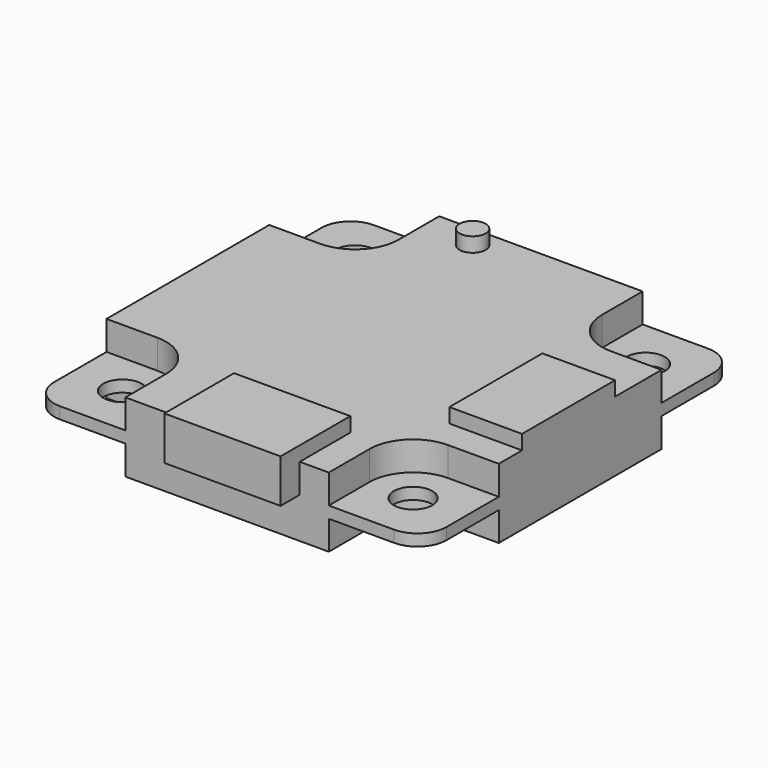
from build123d import *

# Parameters (mm, degrees)
F0_W          = 27
F0_H          = 27
F1_DEPTH      = 0.8
F2_D          = 2.65
F3_R          = 2
F4_W          = 5
F4_H          = 8
F4_W_2        = 8
F4_H_2        = 6
F4_R          = 0.9
F5_DEPTH      = 3
F7_DEPTH      = 2.8
F7_DEPTH_BACK = 2


with BuildPart() as f1:
    # F0 (on Top) → F1 (new body)
    with BuildSketch(Plane.XY):
        Rectangle(F0_W, F0_H)
    extrude(amount=F1_DEPTH)

    # F2 (through all)
    with Locations(Plane(origin=(0, 0, 0), x_dir=(1, 0, 0), z_dir=(0, 0, -1))):
        with Locations((-10, 10), (-10, -10), (10, 10), (10, -10)):
            Hole(F2_D / 2)

    # F3
    f3_edges = [f1.edges().sort_by_distance(p)[0] for p in [
        (-13.5, -13.5, 0.4),
        (-13.5, 13.5, 0.4),
        (13.5, -13.5, 0.4),
        (13.5, 13.5, 0.4),
    ]]
    fillet(f3_edges, radius=F3_R)

    # F4 (on face) → F5 (join)
    with BuildSketch(Plane.XY.offset(0.8)):
        with Locations((11, -1)):
            Rectangle(F4_W, F4_H)
        with Locations((1, -12.15)):
            Rectangle(F4_W_2, F4_H_2)
        with Locations((-3.5, 12)):
            Circle(F4_R)
    extrude(amount=F5_DEPTH)

    # F6 (on Top) → F7 (join, two sides)
    with BuildSketch(Plane.XY) as f7_sk:
        with BuildLine():
            Line((7, 10), (7, 13.5))
            Line((7, 13.5), (-7, 13.5))
            Line((-7, 13.5), (-7, 10))
            ThreePointArc((-7, 10), (-7.87868, 7.87868), (-10, 7))
            Line((-10, 7), (-13.5, 7))
            Line((-13.5, 7), (-13.5, -7))
            Line((-13.5, -7), (-10, -7))
            ThreePointArc((-10, -7), (-7.87868, -7.87868), (-7, -10))
            Line((-7, -10), (-7, -13.5))
            Line((-7, -13.5), (7, -13.5))
            Line((7, -13.5), (7, -10))
            ThreePointArc((7, -10), (7.87868, -7.87868), (10, -7))
            Line((10, -7), (13.5, -7))
            Line((13.5, -7), (13.5, 7))
            Line((13.5, 7), (10, 7))
            ThreePointArc((10, 7), (7.87868, 7.87868), (7, 10))
        make_face()
    extrude(amount=F7_DEPTH)
    extrude(f7_sk.sketch, amount=-F7_DEPTH_BACK)


solid = f1.part
